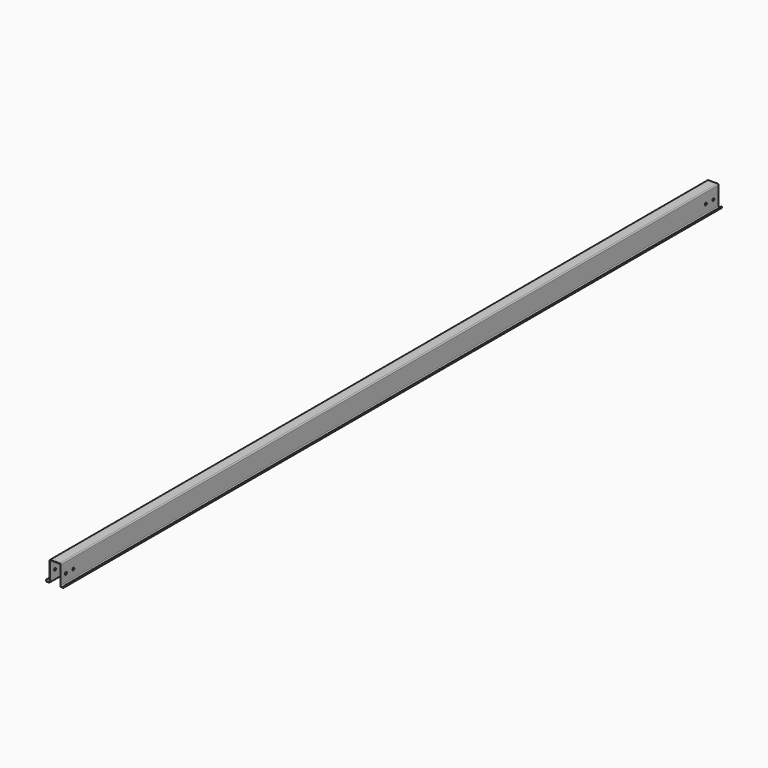
from build123d import *

# Parameters (mm, degrees)
F1_DEPTH = 4406.576
F3_D     = 13.2


with BuildPart() as f1:
    # F0 (on Front) → F1 (new body)
    with BuildSketch(Plane.XZ):
        with BuildLine():
            Line((0, -3), (0, 0))
            Line((0, 0), (-2, 0))
            Line((-2, 0), (-2, -5))
            ThreePointArc((-2, -5), (-0.5355339059, -8.5355339059), (3, -10))
            Line((3, -10), (13, -10))
            ThreePointArc((13, -10), (16.5355339059, -8.5355339059), (18, -5))
            Line((18, -5), (18, 93))
            ThreePointArc((18, 93), (19.4644660941, 96.5355339059), (23, 98))
            Line((23, 98), (69, 98))
            ThreePointArc((69, 98), (72.5355339059, 96.5355339059), (74, 93))
            Line((74, 93), (74, -5))
            ThreePointArc((74, -5), (75.4644660941, -8.5355339059), (79, -10))
            Line((79, -10), (89, -10))
            ThreePointArc((89, -10), (92.5355339059, -8.5355339059), (94, -5))
            Line((94, -5), (94, 0))
            Line((94, 0), (92, 0))
            Line((92, 0), (92, -3))
            ThreePointArc((92, -3), (90.5355339059, -6.5355339059), (87, -8))
            Line((87, -8), (81, -8))
            ThreePointArc((81, -8), (77.4644660941, -6.5355339059), (76, -3))
            Line((76, -3), (76, 95))
            ThreePointArc((76, 95), (74.5355339059, 98.5355339059), (71, 100))
            Line((71, 100), (21, 100))
            ThreePointArc((21, 100), (17.4644660941, 98.5355339059), (16, 95))
            Line((16, 95), (16, -3))
            ThreePointArc((16, -3), (14.5355339059, -6.5355339059), (11, -8))
            Line((11, -8), (5, -8))
            ThreePointArc((5, -8), (1.4644660941, -6.5355339059), (0, -3))
        make_face()
    extrude(amount=F1_DEPTH)

    # F3 (through all)
    with Locations(Plane.YZ.offset(76)):
        with Locations((-4371.576, 40), (-4321.576, 40), (-85, 40), (-35, 40)):
            Hole(F3_D / 2)


solid = f1.part
